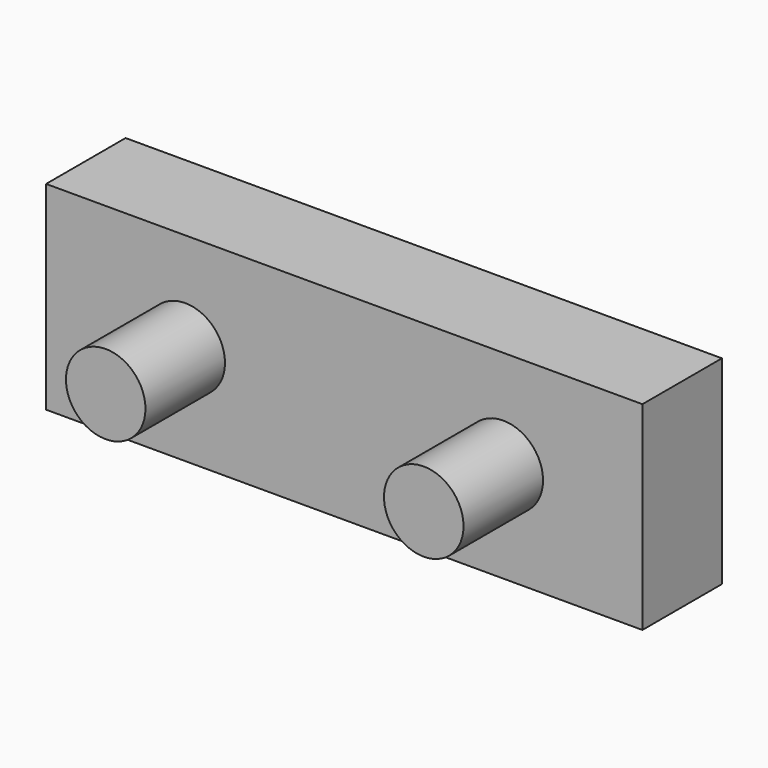
from build123d import *

# Parameters (mm, degrees)
F0_W     = 150
F0_H     = 50
F0_R     = 10
F1_DEPTH = 25
F2_DEPTH = 25


with BuildPart() as f1:
    # F0 (on Front) → F1 (new body)
    with BuildSketch(Plane.XZ):
        Rectangle(F0_W, F0_H)
        with Locations((-40, 0)):
            Circle(F0_R, mode=Mode.SUBTRACT)
        with Locations((40, 0)):
            Circle(F0_R, mode=Mode.SUBTRACT)
        with Locations((-40, 0)):
            Circle(F0_R)
        with Locations((40, 0)):
            Circle(F0_R)
    extrude(amount=-F1_DEPTH)

    # F0 (on Front) → F2 (join)
    with BuildSketch(Plane.XZ):
        with Locations((-40, 0)):
            Circle(F0_R)
        with Locations((40, 0)):
            Circle(F0_R)
    extrude(amount=F2_DEPTH)


solid = f1.part
